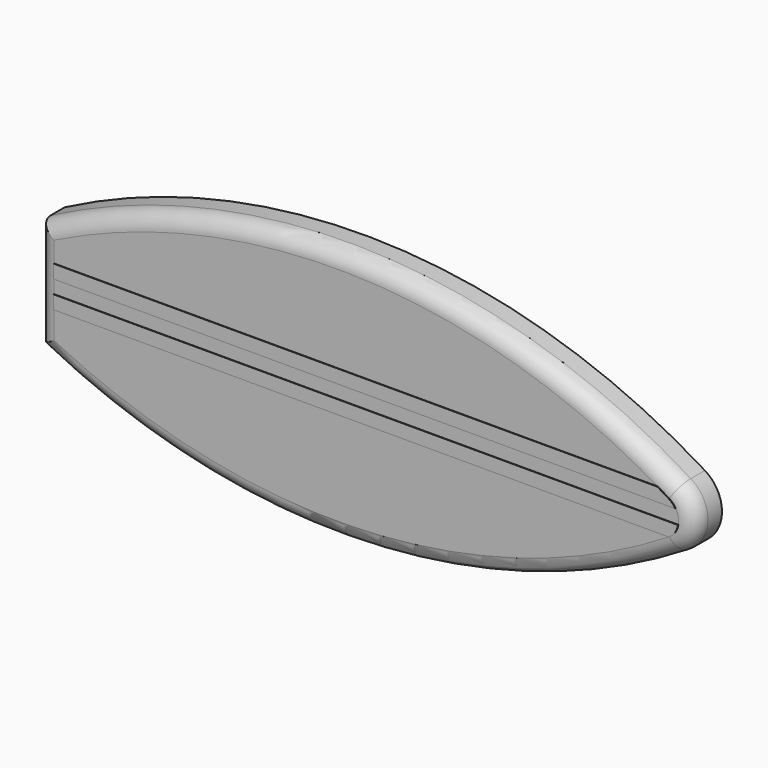
from build123d import *

# Parameters (mm, degrees)
F1_DEPTH = 15.875
F2_R     = 7.62
F4_DEPTH = 0.254


with BuildPart() as f1:
    # F0 (on Front) → F1 (new body)
    with BuildSketch(Plane.XZ):
        with BuildLine():
            Line((-292.904052, 44.280437), (-292.904052, -6.519563))
            ThreePointArc((-292.904052, -6.519563), (-141.216922, -40.630235), (7.560473, 4.511875))
            ThreePointArc((7.560473, 4.511875), (15.581727, 18.880437), (7.560473, 33.249))
            ThreePointArc((7.560473, 33.249), (-141.216922, 78.391109), (-292.904052, 44.280437))
        make_face()
    extrude(amount=F1_DEPTH)

    # F2
    f2_edges = [f1.edges().sort_by_distance(p)[0] for p in [
        (-292.904052, -15.875, 18.880437),
        (-141.216922, -15.875, -40.630235),
        (15.581727, -15.875, 18.880437),
        (-141.216922, -15.875, 78.391109),
    ]]
    fillet(f2_edges, radius=F2_R)


with BuildPart() as f4:
    # F3 (on face) → F4 (new body)
    with BuildSketch(Plane.XZ.offset(15.875)):
        with BuildLine():
            Line((-285.284052, 30.048192), (-285.284052, 23.698192))
            Line((-285.284052, 23.698192), (6.609736, 23.698192))
            ThreePointArc((6.609736, 23.698192), (5.26691, 25.410789), (3.561461, 26.762683))
            ThreePointArc((3.561461, 26.762683), (0.840677, 28.420068), (-1.897719, 30.048192))
            Line((-1.897719, 30.048192), (-285.284052, 30.048192))
        make_face()
        with BuildLine():
            Line((7.834076, 17.348192), (-285.284052, 17.348192))
            Line((-285.284052, 17.348192), (-285.284052, 10.998192))
            Line((-285.284052, 10.998192), (3.561461, 10.998192))
            ThreePointArc((3.561461, 10.998192), (6.384523, 13.711107), (7.834076, 17.348192))
        make_face()
    extrude(amount=F4_DEPTH)


solid = Compound([f1.part, f4.part])
